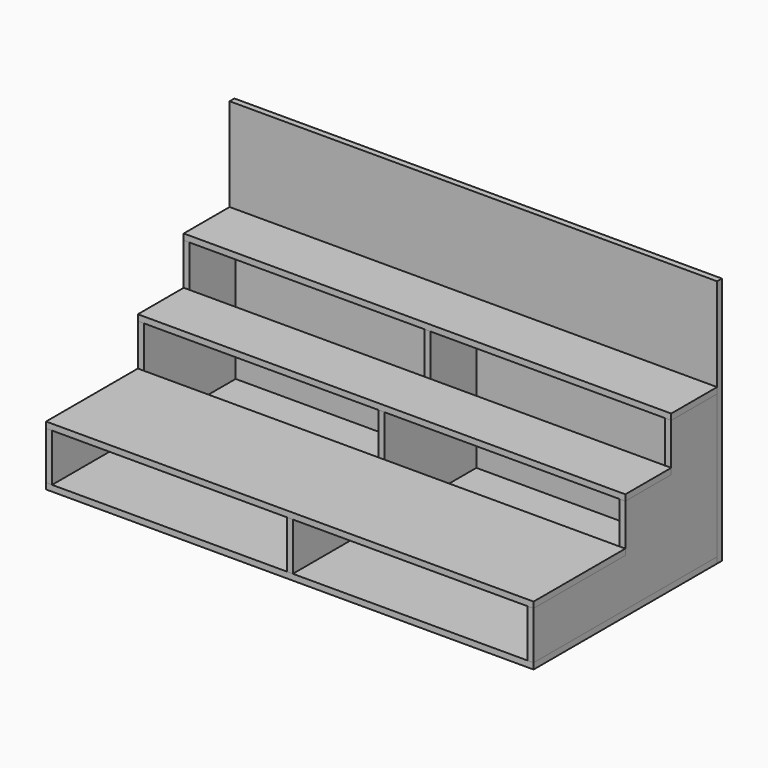
from build123d import *

# Parameters (mm, degrees)
F1_W      = 255
F1_H      = 120
F2_DEPTH  = 3.15
F4_DEPTH  = 3.15
F7_W      = 255
F7_H      = 3.15
F8_DEPTH  = 60
F9_W      = 255
F9_H      = 3.15
F10_DEPTH = 30
F12_W     = 255
F12_H     = 130
F13_DEPTH = 3.15


with BuildPart() as f2:
    # F1 (on Top) → F2 (new body)
    with BuildSketch(Plane.XY):
        with Locations((127.5, 60)):
            Rectangle(F1_W, F1_H)
    extrude(amount=F2_DEPTH)


with BuildPart() as f4:
    # F3 (on face) → F4 (new body)
    with BuildSketch(Plane(origin=(0, 0, 0), x_dir=(0, -1, 0), z_dir=(-1, 0, 0))):
        Polygon((-120, 3.15), (0, 3.15), (0, 28.15), (-60, 28.15), (-60, 53.15), (-90, 53.15), (-90, 78.15), (-120, 78.15), align=None)
    extrude(amount=-F4_DEPTH)


with BuildPart() as f5_1:
    # F5: copy of F4
    add(f4.part.moved(Location((251.85, 0, 0))))


with BuildPart() as f6_1:
    # F6: copy of F4
    add(f4.part.moved(Location((125.925, 0, 0))))


with BuildPart() as f8:
    # F7 (on face) → F8 (new body, through all)
    with BuildSketch(Plane.XZ):
        with Locations((127.5, 29.725)):
            Rectangle(F7_W, F7_H)
    extrude(amount=-F8_DEPTH)


with BuildPart() as f10:
    # F9 (on face) → F10 (new body, through all)
    with BuildSketch(Plane.XZ.offset(-60)):
        with Locations((127.5, 54.725)):
            Rectangle(F9_W, F9_H)
    extrude(amount=-F10_DEPTH)


with BuildPart() as f11_1:
    # F11: copy of F10
    add(f10.part.moved(Location((0, 30, 25))))


with BuildPart() as f13:
    # F12 (on face) → F13 (new body)
    with BuildSketch(Plane(origin=(0, 120, 0), x_dir=(-1, 0, 0), z_dir=(0, 1, 0))):
        with Locations((-127.5, 65)):
            Rectangle(F12_W, F12_H)
    extrude(amount=F13_DEPTH)


solid = Compound([f2.part, f4.part, f5_1.part, f6_1.part, f8.part, f10.part, f11_1.part, f13.part])
